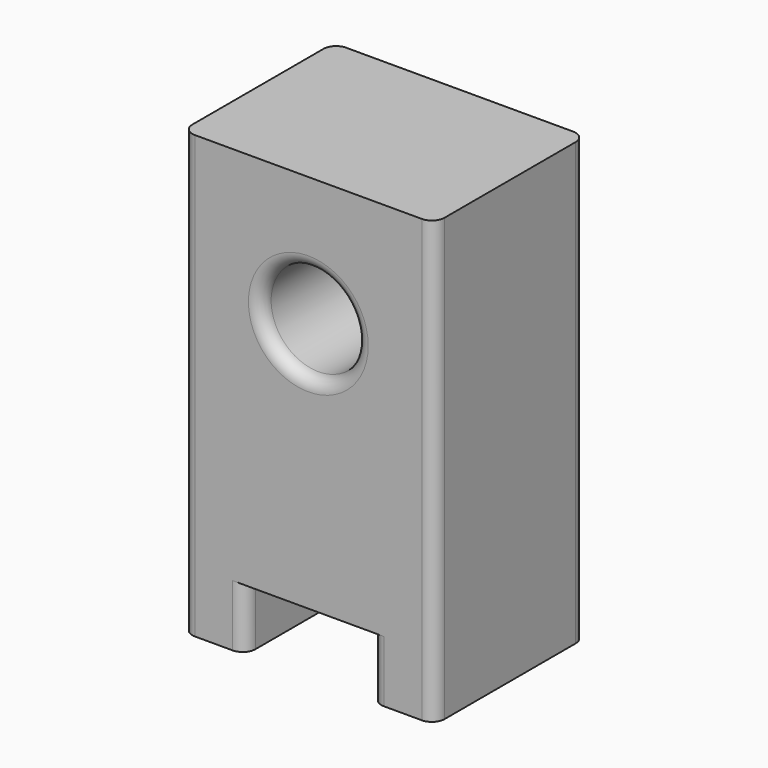
from build123d import *

# Parameters (mm, degrees)
F0_R     = 19.05
F1_DEPTH = 38.1
F2_R     = 5.08


with BuildPart() as f1:
    # F0 (on Front) → F1 (new body, symmetric)
    with BuildSketch(Plane.XZ):
        Polygon((50.8, 88.9), (-50.8, 88.9), (-50.8, -88.9), (-25.4, -88.9), (-25.4, -64.161747), (25.4, -64.161747), (25.4, -88.9), (50.8, -88.9), align=None)
        with Locations((0, 36.827926)):
            Circle(F0_R, mode=Mode.SUBTRACT)
    extrude(amount=F1_DEPTH, both=True)

    # F2
    f2_edges = [f1.edges().sort_by_distance(p)[0] for p in [
        (-50.8, 38.1, 0),
        (50.8, 38.1, 0),
        (-50.8, -38.1, 0),
        (50.8, -38.1, 0),
        (-25.4, -38.1, -76.530873),
        (25.4, -38.1, -76.530873),
        (-25.4, 38.1, -76.530873),
        (25.4, 38.1, -76.530873),
        (-19.05, -38.1, 36.827926),
        (-19.05, 38.1, 36.827926),
    ]]
    fillet(f2_edges, radius=F2_R)


solid = f1.part
